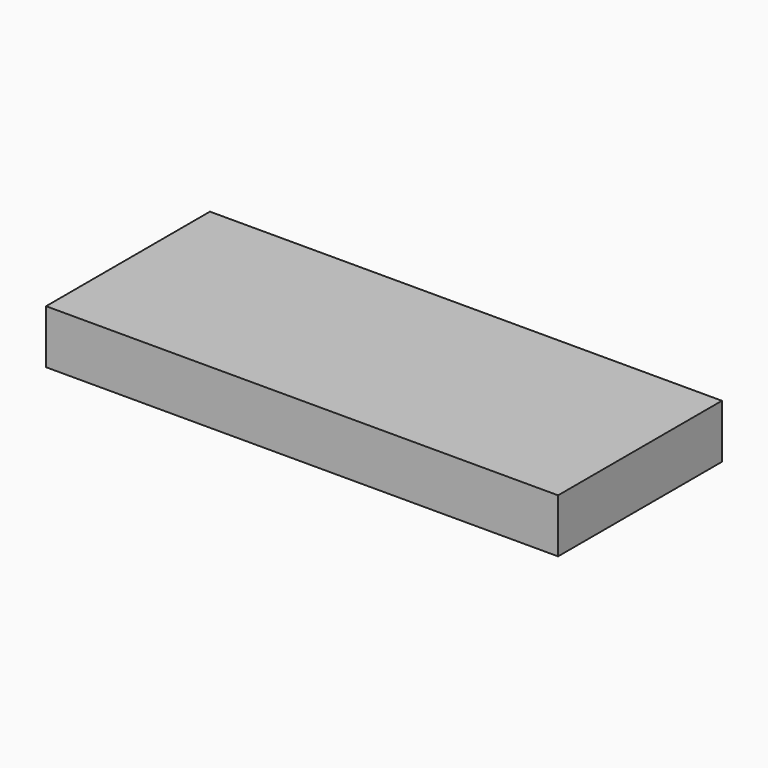
from build123d import *

# Parameters (mm, degrees)
F0_W     = 100
F0_H     = 80
F0_R     = 5
F1_DEPTH = 42


with BuildPart() as f1:
    # F0 (on Top) → F1 (new body)
    with BuildSketch(Plane.XY):
        with Locations((150, 40)):
            Rectangle(F0_W, F0_H)
        with Locations((115, 10)):
            Circle(F0_R, mode=Mode.SUBTRACT)
        with Locations((175, 10)):
            Circle(F0_R, mode=Mode.SUBTRACT)
        with Locations((115, 50)):
            Circle(F0_R, mode=Mode.SUBTRACT)
        with Locations((155, 40)):
            Circle(F0_R, mode=Mode.SUBTRACT)
        with Locations((50, 40)):
            Rectangle(F0_W, F0_H)
        with Locations((15, 10)):
            Circle(F0_R, mode=Mode.SUBTRACT)
        with Locations((75, 10)):
            Circle(F0_R, mode=Mode.SUBTRACT)
        with Locations((15, 50)):
            Circle(F0_R, mode=Mode.SUBTRACT)
        with Locations((55, 40)):
            Circle(F0_R, mode=Mode.SUBTRACT)
        with Locations((250, 40)):
            Rectangle(F0_W, F0_H)
        with Locations((215, 10)):
            Circle(F0_R, mode=Mode.SUBTRACT)
        with Locations((275, 10)):
            Circle(F0_R, mode=Mode.SUBTRACT)
        with Locations((215, 50)):
            Circle(F0_R, mode=Mode.SUBTRACT)
        with Locations((255, 40)):
            Circle(F0_R, mode=Mode.SUBTRACT)
        with Locations((350, 120)):
            Rectangle(F0_W, F0_H)
        with Locations((315, 90)):
            Circle(F0_R, mode=Mode.SUBTRACT)
        with Locations((375, 90)):
            Circle(F0_R, mode=Mode.SUBTRACT)
        with Locations((315, 130)):
            Circle(F0_R, mode=Mode.SUBTRACT)
        with Locations((355, 120)):
            Circle(F0_R, mode=Mode.SUBTRACT)
        with Locations((250, 120)):
            Rectangle(F0_W, F0_H)
        with Locations((215, 90)):
            Circle(F0_R, mode=Mode.SUBTRACT)
        with Locations((275, 90)):
            Circle(F0_R, mode=Mode.SUBTRACT)
        with Locations((215, 130)):
            Circle(F0_R, mode=Mode.SUBTRACT)
        with Locations((255, 120)):
            Circle(F0_R, mode=Mode.SUBTRACT)
        with Locations((150, 120)):
            Rectangle(F0_W, F0_H)
        with Locations((115, 90)):
            Circle(F0_R, mode=Mode.SUBTRACT)
        with Locations((175, 90)):
            Circle(F0_R, mode=Mode.SUBTRACT)
        with Locations((115, 130)):
            Circle(F0_R, mode=Mode.SUBTRACT)
        with Locations((155, 120)):
            Circle(F0_R, mode=Mode.SUBTRACT)
        with Locations((50, 120)):
            Rectangle(F0_W, F0_H)
        with Locations((15, 90)):
            Circle(F0_R, mode=Mode.SUBTRACT)
        with Locations((75, 90)):
            Circle(F0_R, mode=Mode.SUBTRACT)
        with Locations((15, 130)):
            Circle(F0_R, mode=Mode.SUBTRACT)
        with Locations((55, 120)):
            Circle(F0_R, mode=Mode.SUBTRACT)
        with Locations((350, 40)):
            Rectangle(F0_W, F0_H)
        with Locations((315, 10)):
            Circle(F0_R, mode=Mode.SUBTRACT)
        with Locations((375, 10)):
            Circle(F0_R, mode=Mode.SUBTRACT)
        with Locations((315, 50)):
            Circle(F0_R, mode=Mode.SUBTRACT)
        with Locations((355, 40)):
            Circle(F0_R, mode=Mode.SUBTRACT)
        with Locations((155, 120)):
            Circle(F0_R)
        with Locations((315, 130)):
            Circle(F0_R)
        with Locations((15, 50)):
            Circle(F0_R)
        with Locations((15, 130)):
            Circle(F0_R)
        with Locations((115, 130)):
            Circle(F0_R)
        with Locations((155, 40)):
            Circle(F0_R)
        with Locations((215, 130)):
            Circle(F0_R)
        with Locations((315, 90)):
            Circle(F0_R)
        with Locations((315, 10)):
            Circle(F0_R)
        with Locations((315, 50)):
            Circle(F0_R)
        with Locations((255, 40)):
            Circle(F0_R)
        with Locations((15, 10)):
            Circle(F0_R)
        with Locations((75, 10)):
            Circle(F0_R)
        with Locations((55, 40)):
            Circle(F0_R)
        with Locations((215, 90)):
            Circle(F0_R)
        with Locations((275, 90)):
            Circle(F0_R)
        with Locations((15, 90)):
            Circle(F0_R)
        with Locations((75, 90)):
            Circle(F0_R)
        with Locations((375, 10)):
            Circle(F0_R)
        with Locations((215, 10)):
            Circle(F0_R)
        with Locations((175, 90)):
            Circle(F0_R)
        with Locations((55, 120)):
            Circle(F0_R)
        with Locations((115, 10)):
            Circle(F0_R)
        with Locations((115, 50)):
            Circle(F0_R)
        with Locations((175, 10)):
            Circle(F0_R)
        with Locations((115, 90)):
            Circle(F0_R)
        with Locations((355, 40)):
            Circle(F0_R)
        with Locations((255, 120)):
            Circle(F0_R)
        with Locations((375, 90)):
            Circle(F0_R)
        with Locations((215, 50)):
            Circle(F0_R)
        with Locations((275, 10)):
            Circle(F0_R)
        with Locations((355, 120)):
            Circle(F0_R)
    extrude(amount=F1_DEPTH)


solid = f1.part
